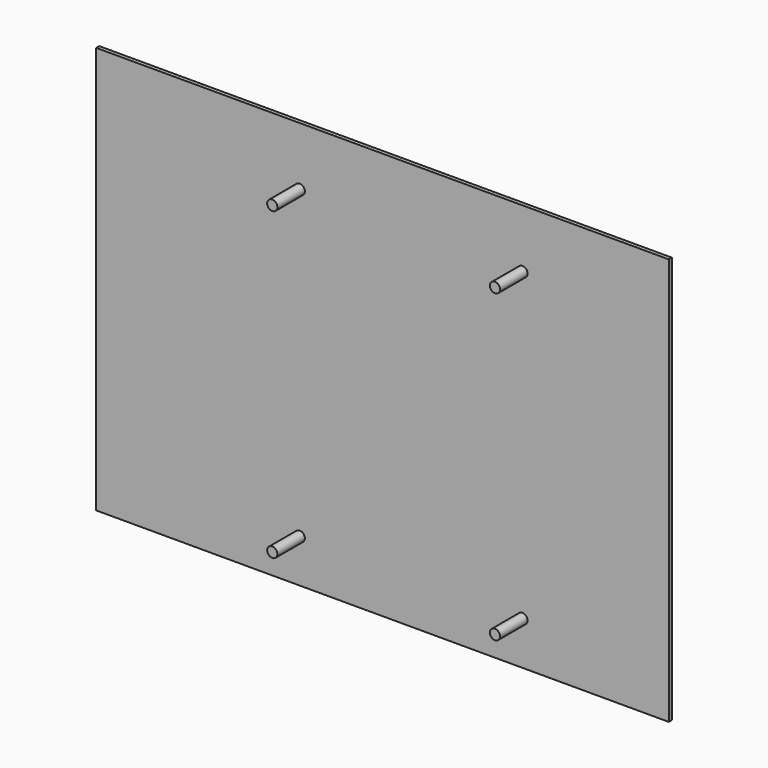
from build123d import *

# Parameters (mm, degrees)
F0_W     = 450
F0_H     = 320
F0_W_2   = 210
F0_H_2   = 300
F0_R     = 4
F1_DEPTH = 3
F2_DEPTH = 30


with BuildPart() as f1:
    # F0 (on Front) → F1 (new body)
    with BuildSketch(Plane.XZ):
        with Locations((-2.00648, 0)):
            Rectangle(F0_W, F0_H)
        with Locations((19.817507, 0)):
            Rectangle(F0_W_2, F0_H_2, mode=Mode.SUBTRACT)
        with Locations((19.817507, 0)):
            Rectangle(F0_W_2, F0_H_2)
        with Locations((-67.00648, -125.911986)):
            Circle(F0_R, mode=Mode.SUBTRACT)
        with Locations((107.99352, -125.911986)):
            Circle(F0_R, mode=Mode.SUBTRACT)
        with Locations((-67.00648, 114.088014)):
            Circle(F0_R, mode=Mode.SUBTRACT)
        with Locations((107.99352, 114.088014)):
            Circle(F0_R, mode=Mode.SUBTRACT)
    extrude(amount=F1_DEPTH)

    # F0 (on Front) → F2 (join)
    with BuildSketch(Plane.XZ):
        with Locations((-67.00648, 114.088014)):
            Circle(F0_R)
        with Locations((107.99352, 114.088014)):
            Circle(F0_R)
        with Locations((-67.00648, -125.911986)):
            Circle(F0_R)
        with Locations((107.99352, -125.911986)):
            Circle(F0_R)
    extrude(amount=F2_DEPTH)


solid = f1.part
